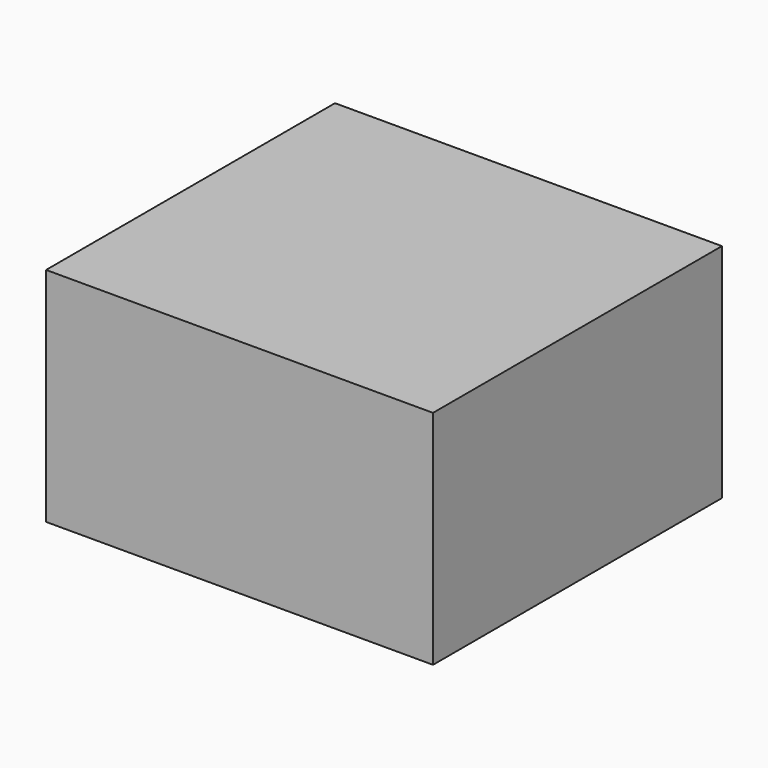
from build123d import *

# Parameters (mm, degrees)
F0_W     = 150
F0_H     = 86
F1_DEPTH = 140
F2_R     = 1.75
F3_DEPTH = 1


with BuildPart() as f1:
    # F0 (on Front) → F1 (new body)
    with BuildSketch(Plane.XZ):
        Rectangle(F0_W, F0_H)
    extrude(amount=F1_DEPTH)

    # F2 (on face) → F3 (cut)
    with BuildSketch(Plane(origin=(0, 0, 0), x_dir=(-1, 0, 0), z_dir=(0, 1, 0))):
        with Locations((-69, -37)):
            Circle(F2_R)
    extrude(amount=-F3_DEPTH, mode=Mode.SUBTRACT)


solid = f1.part
